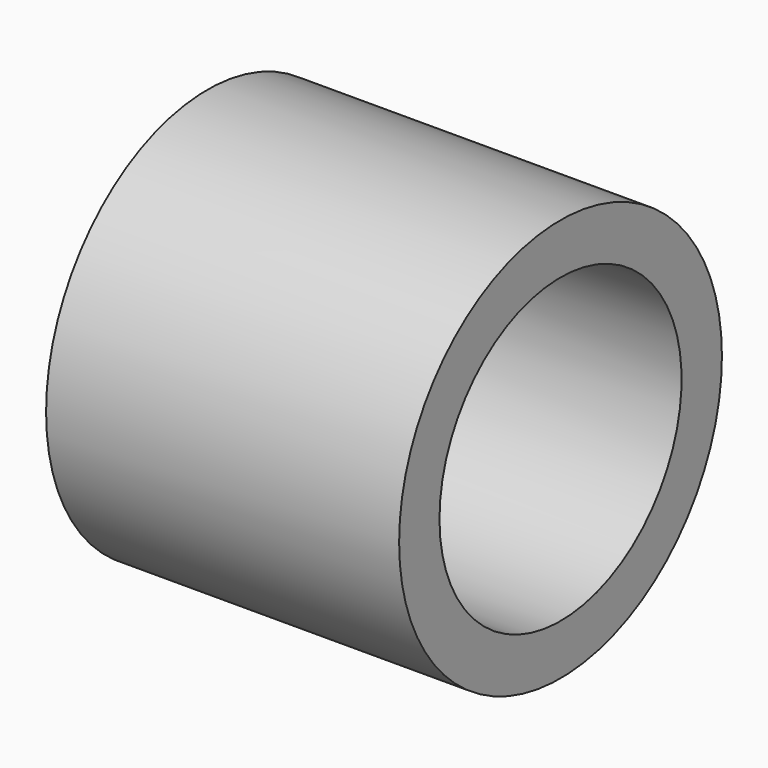
from build123d import *

# Parameters (mm, degrees)
F0_R     = 4
F1_DEPTH = 7
F3_D     = 6


with BuildPart() as f1:
    # F0 (on Right) → F1 (new body)
    with BuildSketch(Plane.YZ):
        Circle(F0_R)
    extrude(amount=F1_DEPTH)

    # F3 (through all)
    with Locations(Plane.YZ.offset(7)):
        with Locations((0, 0)):
            Hole(F3_D / 2)


solid = f1.part
